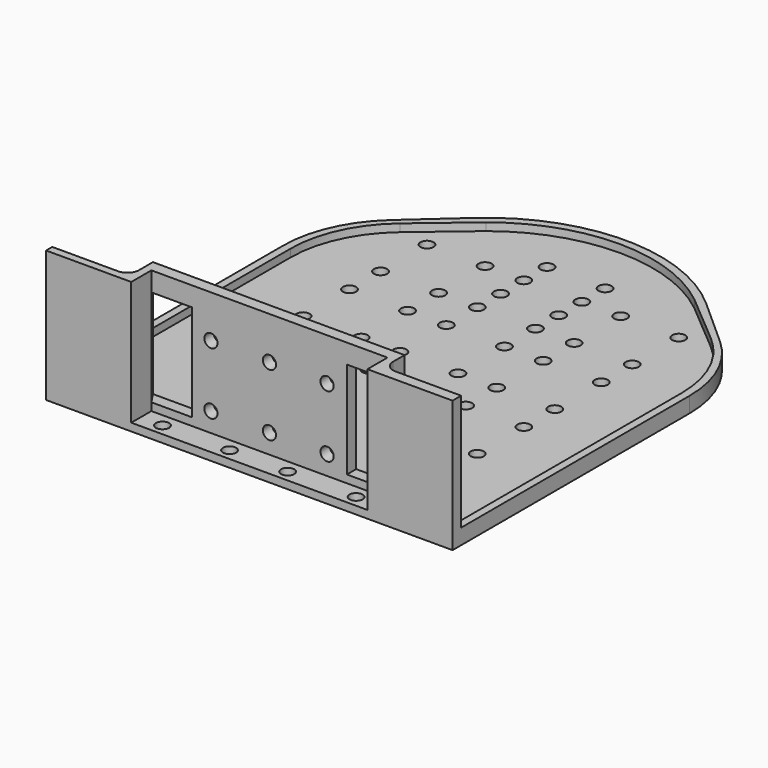
from build123d import *

# Parameters (mm, degrees)
SKETCH023_R     = 1.7
PAD004_DEPTH    = 2
PAD005_DEPTH    = 2
SKETCH025_W     = 40
SKETCH025_H     = 3
PAD006_DEPTH    = 25
PAD007_DEPTH    = 5
SKETCH027_R     = 1.7
POCKET018_DEPTH = 10


with BuildPart() as part:
    # Sketch023 → Pad004 (new body)
    with BuildSketch(Plane.XY):
        with BuildLine():
            Line((-52.5, 0), (-30.5, 0))
            Line((-30.5, 0), (30.5, 0))
            Line((30.5, 0), (52.5, 0))
            Line((52.5, 0), (52.5, 76.5))
            ThreePointArc((52.5, 76.5), (49.886128, 88.747449), (42.5, 98.86068))
            Line((42.5, 98.86068), (30, 110.04102))
            ThreePointArc((30, 110.04102), (0, 121.5), (-30, 110.04102))
            Line((-30, 110.04102), (-42.5, 98.86068))
            ThreePointArc((-42.5, 98.86068), (-49.886128, 88.747449), (-52.5, 76.5))
            Line((-52.5, 76.5), (-52.5, 0))
        make_face()
        with Locations((17.511522, 32.982072)):
            Circle(SKETCH023_R, mode=Mode.SUBTRACT)
        with Locations((17.511522, 47.982072)):
            Circle(SKETCH023_R, mode=Mode.SUBTRACT)
        with Locations((32.511522, 47.982072)):
            Circle(SKETCH023_R, mode=Mode.SUBTRACT)
        with Locations((32.511522, 32.982072)):
            Circle(SKETCH023_R, mode=Mode.SUBTRACT)
        with Locations((-7.5, 32.982072)):
            Circle(SKETCH023_R, mode=Mode.SUBTRACT)
        with Locations((-7.5, 47.982072)):
            Circle(SKETCH023_R, mode=Mode.SUBTRACT)
        with Locations((7.5, 47.982072)):
            Circle(SKETCH023_R, mode=Mode.SUBTRACT)
        with Locations((7.5, 32.982072)):
            Circle(SKETCH023_R, mode=Mode.SUBTRACT)
        with Locations((-32.511522, 32.982072)):
            Circle(SKETCH023_R, mode=Mode.SUBTRACT)
        with Locations((-32.511522, 47.982072)):
            Circle(SKETCH023_R, mode=Mode.SUBTRACT)
        with Locations((-17.511522, 47.982072)):
            Circle(SKETCH023_R, mode=Mode.SUBTRACT)
        with Locations((-17.511522, 32.982072)):
            Circle(SKETCH023_R, mode=Mode.SUBTRACT)
        with Locations((17.511522, 57.993594)):
            Circle(SKETCH023_R, mode=Mode.SUBTRACT)
        with Locations((17.511522, 72.993594)):
            Circle(SKETCH023_R, mode=Mode.SUBTRACT)
        with Locations((32.511522, 72.993594)):
            Circle(SKETCH023_R, mode=Mode.SUBTRACT)
        with Locations((32.511522, 57.993594)):
            Circle(SKETCH023_R, mode=Mode.SUBTRACT)
        with Locations((-7.5, 57.993594)):
            Circle(SKETCH023_R, mode=Mode.SUBTRACT)
        with Locations((-7.5, 72.993594)):
            Circle(SKETCH023_R, mode=Mode.SUBTRACT)
        with Locations((7.5, 72.993594)):
            Circle(SKETCH023_R, mode=Mode.SUBTRACT)
        with Locations((7.5, 57.993594)):
            Circle(SKETCH023_R, mode=Mode.SUBTRACT)
        with Locations((-32.511522, 57.993594)):
            Circle(SKETCH023_R, mode=Mode.SUBTRACT)
        with Locations((-32.511522, 72.993594)):
            Circle(SKETCH023_R, mode=Mode.SUBTRACT)
        with Locations((-17.511522, 72.993594)):
            Circle(SKETCH023_R, mode=Mode.SUBTRACT)
        with Locations((-17.511522, 57.993594)):
            Circle(SKETCH023_R, mode=Mode.SUBTRACT)
        with Locations((17.511522, 83.005116)):
            Circle(SKETCH023_R, mode=Mode.SUBTRACT)
        with Locations((17.511522, 98.005116)):
            Circle(SKETCH023_R, mode=Mode.SUBTRACT)
        with Locations((32.511522, 98.005116)):
            Circle(SKETCH023_R, mode=Mode.SUBTRACT)
        with Locations((32.511522, 83.005116)):
            Circle(SKETCH023_R, mode=Mode.SUBTRACT)
        with Locations((-7.5, 83.005116)):
            Circle(SKETCH023_R, mode=Mode.SUBTRACT)
        with Locations((-7.5, 98.005116)):
            Circle(SKETCH023_R, mode=Mode.SUBTRACT)
        with Locations((7.5, 98.005116)):
            Circle(SKETCH023_R, mode=Mode.SUBTRACT)
        with Locations((7.5, 83.005116)):
            Circle(SKETCH023_R, mode=Mode.SUBTRACT)
        with Locations((-32.511522, 83.005116)):
            Circle(SKETCH023_R, mode=Mode.SUBTRACT)
        with Locations((-32.511522, 98.005116)):
            Circle(SKETCH023_R, mode=Mode.SUBTRACT)
        with Locations((-17.511522, 98.005116)):
            Circle(SKETCH023_R, mode=Mode.SUBTRACT)
        with Locations((-17.511522, 83.005116)):
            Circle(SKETCH023_R, mode=Mode.SUBTRACT)
        with Locations((-7.5, 90.505116)):
            Circle(SKETCH023_R, mode=Mode.SUBTRACT)
        with Locations((-7.5, 105.505116)):
            Circle(SKETCH023_R, mode=Mode.SUBTRACT)
        with Locations((7.5, 105.505116)):
            Circle(SKETCH023_R, mode=Mode.SUBTRACT)
        with Locations((7.5, 90.505116)):
            Circle(SKETCH023_R, mode=Mode.SUBTRACT)
        with Locations((-24.827374, 3)):
            Circle(SKETCH023_R, mode=Mode.SUBTRACT)
        with Locations((-7.5, 3)):
            Circle(SKETCH023_R, mode=Mode.SUBTRACT)
        with Locations((7.5, 3)):
            Circle(SKETCH023_R, mode=Mode.SUBTRACT)
        with Locations((25.172626, 3)):
            Circle(SKETCH023_R, mode=Mode.SUBTRACT)
    extrude(amount=PAD004_DEPTH)

    # Sketch024 (on Face56 of Pad004) → Pad005 (join)
    with BuildSketch(Plane.XY.offset(2)):
        with BuildLine():
            Line((-52.5, 0), (-30.5, 0))
            Line((-30.5, 0), (-30.5, 6.5))
            Line((-30.5, 6.5), (30.5, 6.5))
            Line((30.5, 6.5), (30.5, 0))
            Line((30.5, 0), (52.5, 0))
            Line((52.5, 0), (52.5, 76.5))
            ThreePointArc((52.5, 76.5), (49.886128, 88.747449), (42.5, 98.86068))
            Line((42.5, 98.86068), (30, 110.04102))
            ThreePointArc((30, 110.04102), (0, 121.5), (-30, 110.04102))
            Line((-30, 110.04102), (-42.5, 98.86068))
            ThreePointArc((-42.5, 98.86068), (-49.886128, 88.747449), (-52.5, 76.5))
            Line((-52.5, 76.5), (-52.5, 0))
        make_face()
        with BuildLine():
            Line((-50.5, 2), (-50.5, 76.5))
            ThreePointArc((-40.126205, 98.86068), (-47.780263, 88.82493), (-50.5, 76.5))
            Line((-40.126205, 98.86068), (-26.907285, 110.04102))
            ThreePointArc((26.907285, 110.04102), (0, 119.500023), (-26.907285, 110.04102))
            Line((26.907285, 110.04102), (40.126205, 98.86068))
            ThreePointArc((50.5, 76.5), (47.780263, 88.82493), (40.126205, 98.86068))
            Line((50.5, 76.5), (50.5, 2.779082))
            Line((50.5, 2.779082), (35.5, 2.779082))
            ThreePointArc((32.5, 5.779082), (33.37868, 3.657761), (35.5, 2.779082))
            Line((32.5, 5.779082), (32.5, 9.5))
            Line((32.5, 9.5), (-32.5, 9.5))
            Line((-32.5, 9.5), (-32.5, 5))
            ThreePointArc((-35.5, 2), (-33.37868, 2.87868), (-32.5, 5))
            Line((-35.5, 2), (-50.5, 2))
        make_face(mode=Mode.SUBTRACT)
    extrude(amount=PAD005_DEPTH)

    # Sketch025 (on Face60 of Pad005) → Pad006 (join)
    with BuildSketch(Plane.XY.offset(4)):
        with BuildLine():
            Line((-52.5, 0), (-30.5, 0))
            Line((-30.5, 0), (-30.5, 6.5))
            Line((-32.5, 9.5), (-30.5, 6.5))
            Line((-32.5, 9.5), (-32.5, 5))
            ThreePointArc((-35.5, 2), (-33.37868, 2.87868), (-32.5, 5))
            Line((-35.5, 2), (-50.5, 2))
            Line((-50.5, 2), (-52.5, 2))
            Line((-52.5, 2), (-52.5, 0))
        make_face()
        with Locations((0, 8)):
            Rectangle(SKETCH025_W, SKETCH025_H)
        with BuildLine():
            Line((30.5, 6.5), (30.5, 0))
            Line((30.5, 0), (52.5, 0))
            Line((52.5, 2.779082), (52.5, 0))
            Line((50.5, 2.779082), (52.5, 2.779082))
            Line((50.5, 2.779082), (35.5, 2.779082))
            ThreePointArc((32.5, 5.779082), (33.37868, 3.657761), (35.5, 2.779082))
            Line((32.5, 5.779082), (32.5, 9.5))
            Line((30.5, 6.5), (32.5, 9.5))
        make_face()
    extrude(amount=PAD006_DEPTH)

    # Sketch026 (on Face102 of Pad006) → Pad007 (join)
    with BuildSketch(Plane.XY.offset(29)):
        with BuildLine():
            Line((-52.5, 0), (-30.5, 0))
            Line((-30.5, 0), (-30.5, 6.5))
            Line((-30.5, 6.5), (30.5, 6.5))
            Line((30.5, 6.5), (30.5, 0))
            Line((30.5, 0), (52.5, 0))
            Line((52.5, 2.779082), (52.5, 0))
            Line((50.5, 2.779082), (52.5, 2.779082))
            Line((50.5, 2.779082), (35.5, 2.779082))
            ThreePointArc((32.5, 5.779082), (33.37868, 3.657761), (35.5, 2.779082))
            Line((32.5, 5.779082), (32.5, 9.5))
            Line((32.5, 9.5), (-32.5, 9.5))
            Line((-32.5, 9.5), (-32.5, 5))
            ThreePointArc((-35.5, 2), (-33.37868, 2.87868), (-32.5, 5))
            Line((-35.5, 2), (-50.5, 2))
            Line((-52.5, 2), (-50.5, 2))
            Line((-52.5, 0), (-52.5, 2))
        make_face()
    extrude(amount=PAD007_DEPTH)

    # Sketch027 (on Face114 of Pad007) → Pocket018 (cut)
    with BuildSketch(Plane(origin=(0, 9.5, 0), x_dir=(-1, 0, 0), z_dir=(0, 1, 0))):
        with Locations((-14.881968, 23)):
            Circle(SKETCH027_R)
        with Locations((0, 23)):
            Circle(SKETCH027_R)
        with Locations((15.118032, 23)):
            Circle(SKETCH027_R)
        with Locations((15.118032, 7)):
            Circle(SKETCH027_R)
        with Locations((0, 7)):
            Circle(SKETCH027_R)
        with Locations((-14.881968, 7)):
            Circle(SKETCH027_R)
    extrude(amount=-POCKET018_DEPTH, mode=Mode.SUBTRACT)


solid = part.part
